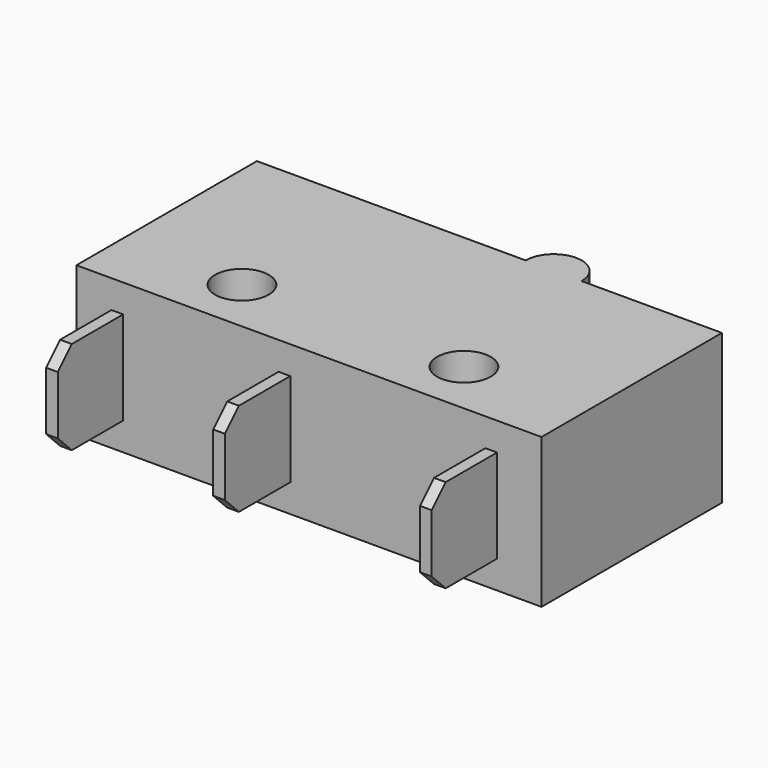
from build123d import *

# Parameters (mm, degrees)
SKETCH_R     = 1.15
PAD_DEPTH    = 6.4
SKETCH001_W  = 0.5
SKETCH001_H  = 4
PAD001_DEPTH = 3.5
CHAMFER_SIZE = 0.75


with BuildPart() as part:
    # Sketch → Pad (new body)
    with BuildSketch(Plane.XY):
        with BuildLine():
            Line((0, 0), (19.9, 0))
            Line((19.9, 0), (19.9, 9.65))
            Line((19.9, 9.65), (13.9, 9.65))
            ThreePointArc((13.9, 9.65), (12.7, 10.85), (11.5, 9.65))
            Line((11.5, 9.65), (0, 9.65))
            Line((0, 9.65), (0, 0))
        make_face()
        with Locations((5.2, 2.35)):
            Circle(SKETCH_R, mode=Mode.SUBTRACT)
        with Locations((14.7, 2.35)):
            Circle(SKETCH_R, mode=Mode.SUBTRACT)
    extrude(amount=PAD_DEPTH)

    # Sketch001 → Pad001 (join)
    with BuildSketch(Plane.XZ):
        with Locations((1.75, 3.2)):
            Rectangle(SKETCH001_W, SKETCH001_H)
        with Locations((8.9, 3.2)):
            Rectangle(SKETCH001_W, SKETCH001_H)
        with Locations((17.75, 3.2)):
            Rectangle(SKETCH001_W, SKETCH001_H)
    extrude(amount=PAD001_DEPTH)

    # Chamfer
    chamfer_edges = [part.edges().sort_by_distance(p)[0] for p in [
        (17.75, -3.5, 5.2),
        (17.75, -3.5, 1.2),
        (1.75, -3.5, 1.2),
        (1.75, -3.5, 5.2),
        (8.9, -3.5, 5.2),
        (8.9, -3.5, 1.2),
    ]]
    chamfer(chamfer_edges, length=CHAMFER_SIZE)


solid = part.part
